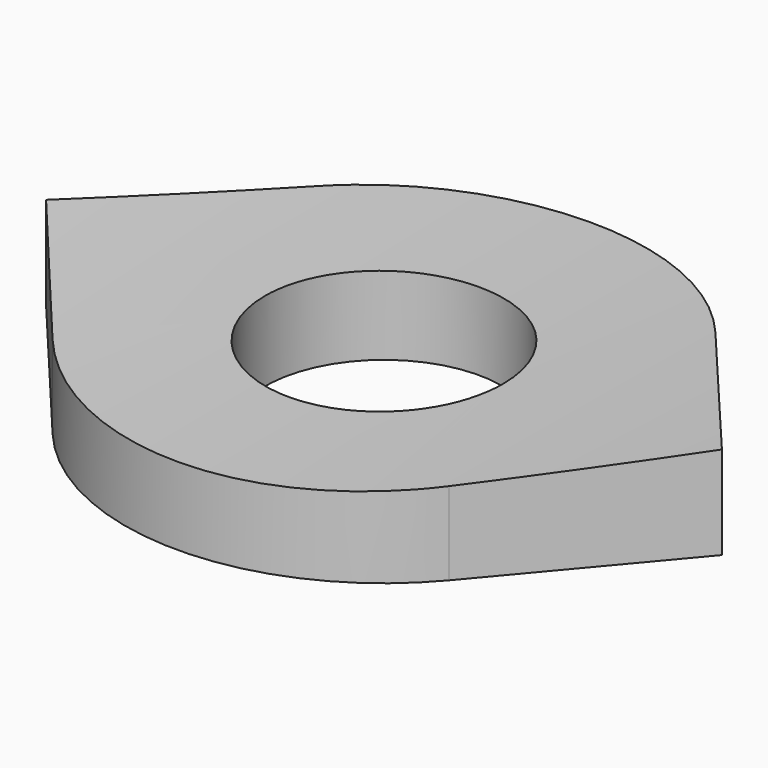
from build123d import *

# Parameters (mm, degrees)
F0_R          = 2.3
F1_DEPTH      = 3
F2_R          = 72.2
F3_DEPTH      = 25
F3_DEPTH_BACK = 25


with BuildPart() as f1:
    # F0 (on Top) → F1 (new body)
    with BuildSketch(Plane.XY):
        with BuildLine():
            Line((-6.5268066341, 0), (-3.8303570799, -3.2137773166))
            ThreePointArc((-3.8303570799, -3.2137773166), (0, -5), (3.8303570799, -3.2137773166))
            Line((3.8303570799, -3.2137773166), (6.5268066341, 0))
            Line((6.5268066341, 0), (3.8303570799, 3.2137773166))
            ThreePointArc((3.8303570799, 3.2137773166), (0, 5), (-3.8303570799, 3.2137773166))
            Line((-3.8303570799, 3.2137773166), (-6.5268066341, 0))
        make_face()
        Circle(F0_R, mode=Mode.SUBTRACT)
    extrude(amount=F1_DEPTH)

    # F2 (on Front) → F3 (cut, two sides)
    with BuildSketch(Plane.XZ) as f3_sk:
        with Locations((0, 73.7)):
            Circle(F2_R)
    extrude(amount=-F3_DEPTH, mode=Mode.SUBTRACT)
    extrude(f3_sk.sketch, amount=F3_DEPTH_BACK, mode=Mode.SUBTRACT)


solid = f1.part
